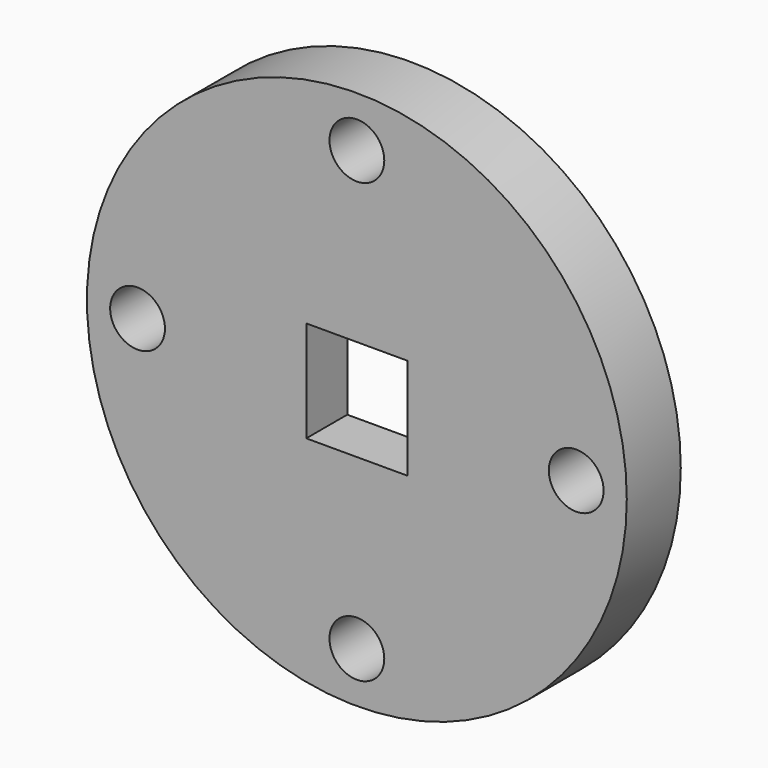
from build123d import *

# Parameters (mm, degrees)
F0_R     = 50.8
F0_R_2   = 5.1562
F0_W     = 19.05
F0_H     = 19.05
F1_DEPTH = 12.7
F2_R     = 25.4
F3_DEPTH = 3.048


with BuildPart() as f1:
    # F0 (on Front) → F1 (new body)
    with BuildSketch(Plane.XZ):
        Circle(F0_R)
        with Locations((0, -41.275)):
            Circle(F0_R_2, mode=Mode.SUBTRACT)
        with Locations((-41.275, 0)):
            Circle(F0_R_2, mode=Mode.SUBTRACT)
        Rectangle(F0_W, F0_H, mode=Mode.SUBTRACT)
        with Locations((41.275, 0)):
            Circle(F0_R_2, mode=Mode.SUBTRACT)
        with Locations((0, 41.275)):
            Circle(F0_R_2, mode=Mode.SUBTRACT)
    extrude(amount=F1_DEPTH)

    # F2 (on Front) → F3 (cut)
    with BuildSketch(Plane.XZ):
        Circle(F2_R)
    extrude(amount=F3_DEPTH, mode=Mode.SUBTRACT)


solid = f1.part
